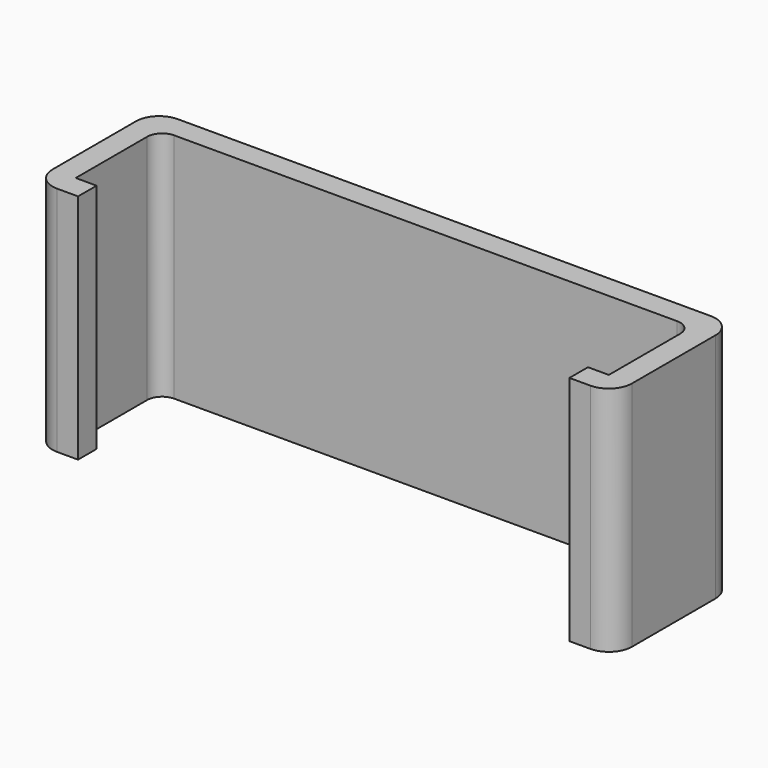
from build123d import *

# Parameters (mm, degrees)
F1_DEPTH = 20


with BuildPart() as f1:
    # F0 (on Top) → F1 (new body)
    with BuildSketch(Plane.XY):
        with BuildLine():
            ThreePointArc((0, 2), (0.585786, 0.585786), (2, 0))
            Line((2, 0), (3.8, 0))
            Line((3.8, 0), (3.8, 2))
            Line((3.8, 2), (2, 2))
            Line((2, 2), (2, 9.7))
            ThreePointArc((2, 9.7), (2.380761, 10.619239), (3.3, 11))
            Line((3.3, 11), (46.7, 11))
            ThreePointArc((46.7, 11), (47.619239, 10.619239), (48, 9.7))
            Line((48, 9.7), (48, 2))
            Line((48, 2), (46.2, 2))
            Line((46.2, 2), (46.2, 0))
            Line((46.2, 0), (48, 0))
            ThreePointArc((48, 0), (49.414214, 0.585786), (50, 2))
            Line((50, 2), (50, 11))
            ThreePointArc((50, 11), (49.414214, 12.414214), (48, 13))
            Line((48, 13), (2, 13))
            ThreePointArc((2, 13), (0.585786, 12.414214), (0, 11))
            Line((0, 11), (0, 2))
        make_face()
    extrude(amount=F1_DEPTH)


solid = f1.part
